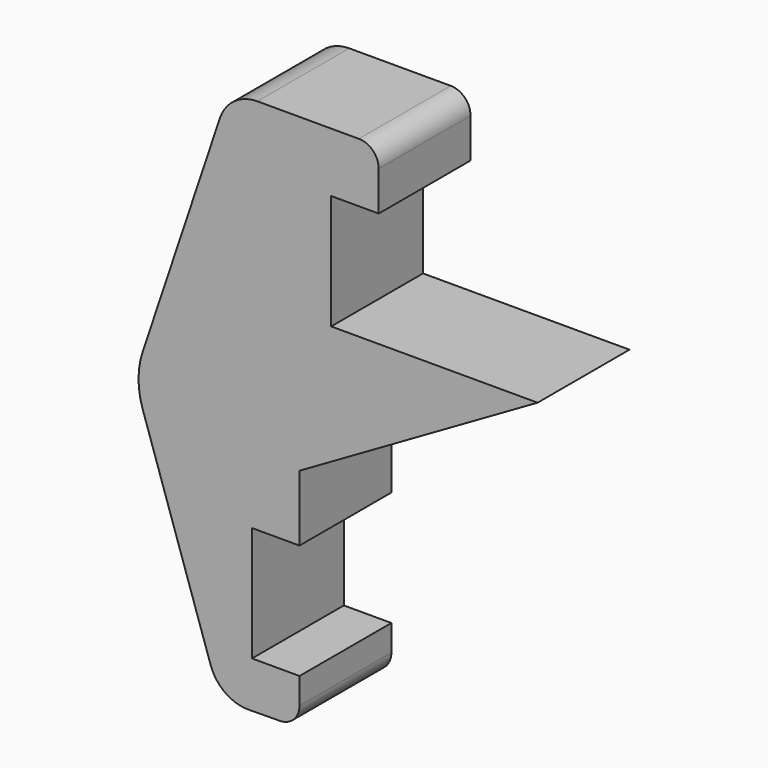
from build123d import *

# Parameters (mm, degrees)
F1_DEPTH = 29


with BuildPart() as f1:
    # F0 (on Front) → F1 (new body)
    with BuildSketch(Plane.XZ):
        with BuildLine():
            ThreePointArc((20, 66.5), (18.535534, 70.035534), (15, 71.5))
            Line((15, 71.5), (-10.634611, 71.5))
            ThreePointArc((-10.634611, 71.5), (-16.477224, 69.615656), (-20.117939, 64.672775))
            Line((-20.117939, 64.672775), (-39.632096, 6.345549))
            ThreePointArc((-39.632096, 6.345549), (-40.665441, 0), (-39.632096, -6.345549))
            Line((-39.632096, -6.345549), (-22.460155, -57.671959))
            ThreePointArc((-22.460155, -57.671959), (-18.777121, -62.64514), (-12.872733, -64.498643))
            Line((-12.872733, -64.498643), (-4.947953, -64.416145))
            ThreePointArc((-4.947953, -64.416145), (-1.446112, -62.9335), (0, -59.416416))
            Line((0, -59.416416), (0, -52.826939))
            Line((0, -52.826939), (-12, -52.826939))
            Line((-12, -52.826939), (-12, -23.826939))
            Line((-12, -23.826939), (0, -23.826939))
            Line((0, -23.826939), (0, -7.178694))
            Line((0, -7.178694), (60.143426, 27.50441))
            Line((60.143426, 27.50441), (8, 27.50441))
            Line((8, 27.50441), (8, 56.50441))
            Line((8, 56.50441), (20, 56.50441))
            Line((20, 56.50441), (20, 66.5))
        make_face()
    extrude(amount=F1_DEPTH)


solid = f1.part
